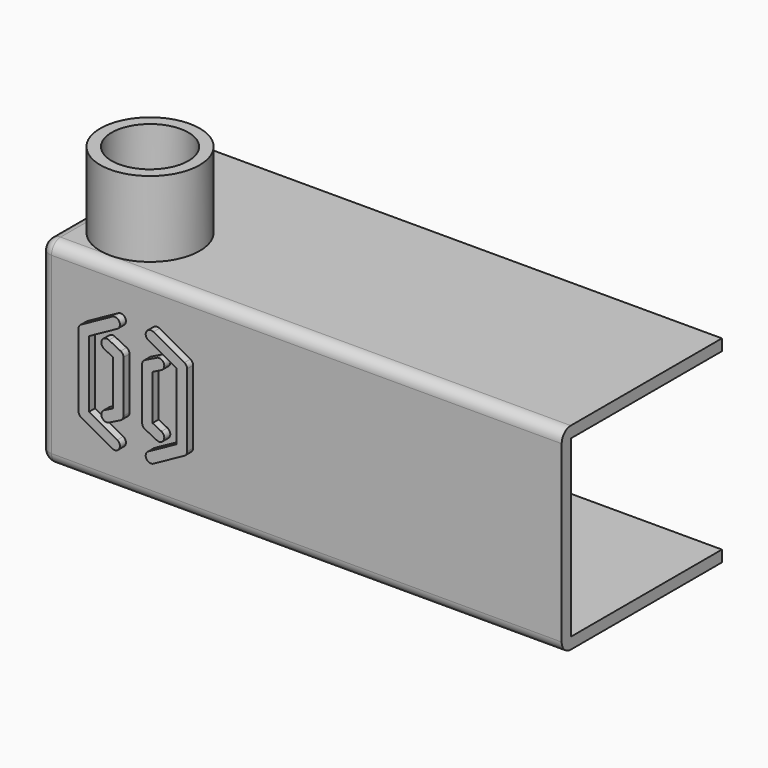
from build123d import *

# Parameters (mm, degrees)
SKETCH_W       = 135
SKETCH_H       = 46.2
PAD_DEPTH      = 50
THICKNESS_T    = 3
SKETCH001_R    = 13.15
SKETCH001_R_2  = 10.15
PAD001_DEPTH   = 20
PAD002_DEPTH   = 2
SKETCH003_W    = 135
SKETCH003_H    = 46.2
PAD003_DEPTH   = 50
THICKNESS001_T = 3


with BuildPart() as left_section:
    # Sketch → Pad (new body)
    with BuildSketch(Plane.XZ):
        Rectangle(SKETCH_W, SKETCH_H)
    extrude(amount=PAD_DEPTH)

    # Thickness
    thickness_openings = [left_section.faces().sort_by_distance(p)[0] for p in [
        (67.5, -25, 0),
        (0, 0, 0),
    ]]
    offset(amount=THICKNESS_T, openings=thickness_openings)

    # Sketch001 (on Face9 of Thickness) → Pad001 (join)
    with BuildSketch(Plane.XY.offset(26.1)):
        with Locations((-54.35, -36.85)):
            Circle(SKETCH001_R)
        with Locations((-54.35, -36.85)):
            Circle(SKETCH001_R_2, mode=Mode.SUBTRACT)
    extrude(amount=PAD001_DEPTH)

    # Sketch002 (on Face13 of Pad001) → Pad002 (join)
    with BuildSketch(Plane.XZ.offset(53)):
        with BuildLine():
            ThreePointArc((-50.721178, -9.605566), (-52.570827, -8.989015), (-51.954276, -7.139366))
            Line((-49.614418, -5.969439), (-51.954276, -7.139366))
            Line((-49.614418, 5.969439), (-49.614418, -5.969439))
            Line((-49.614418, 5.969439), (-51.954276, 7.139366))
            ThreePointArc((-51.954276, 7.139366), (-52.570827, 8.989015), (-50.721178, 9.605566))
            Line((-47.619222, 8.05459), (-50.721178, 9.605566))
            ThreePointArc((-47.619222, 8.05459), (-47.063024, 7.546288), (-46.857124, 6.82149))
            Line((-46.857124, 6.82149), (-46.857124, -6.82149))
            ThreePointArc((-46.857124, -6.82149), (-47.063024, -7.546288), (-47.619222, -8.05459))
            Line((-47.619222, -8.05459), (-50.721178, -9.605566))
        make_face()
        with BuildLine():
            ThreePointArc((-48.518366, -12.938009), (-47.976054, -14.810769), (-49.848814, -15.353081))
            Line((-49.848814, -15.353081), (-58.034521, -10.843626))
            ThreePointArc((-58.034521, -10.843626), (-58.556263, -10.33736), (-58.747944, -9.63609))
            Line((-58.747944, 9.63609), (-58.747944, -9.63609))
            ThreePointArc((-58.747944, 9.63609), (-58.556263, 10.33736), (-58.034521, 10.843626))
            Line((-49.848814, 15.353081), (-58.034521, 10.843626))
            ThreePointArc((-49.848814, 15.353081), (-47.976054, 14.810769), (-48.518366, 12.938009))
            Line((-48.518366, 12.938009), (-55.99065, 8.821574))
            Line((-55.99065, 8.821574), (-55.99065, -8.821574))
            Line((-48.518366, -12.938009), (-55.99065, -8.821574))
        make_face()
        with BuildLine():
            ThreePointArc((-36.827454, -7.139366), (-36.210903, -8.989015), (-38.060552, -9.605566))
            Line((-41.162508, -8.05459), (-38.060552, -9.605566))
            ThreePointArc((-41.162508, -8.05459), (-41.718706, -7.546288), (-41.924606, -6.82149))
            Line((-41.924606, 6.82149), (-41.924606, -6.82149))
            ThreePointArc((-41.924606, 6.82149), (-41.718706, 7.546288), (-41.162508, 8.05459))
            Line((-41.162508, 8.05459), (-38.060552, 9.605566))
            ThreePointArc((-38.060552, 9.605566), (-36.210903, 8.989015), (-36.827454, 7.139366))
            Line((-39.167312, 5.969439), (-36.827454, 7.139366))
            Line((-39.167312, 5.969439), (-39.167312, -5.969439))
            Line((-39.167312, -5.969439), (-36.827454, -7.139366))
        make_face()
        with BuildLine():
            ThreePointArc((-38.932916, -15.353081), (-40.805676, -14.810769), (-40.263364, -12.938009))
            Line((-40.263364, -12.938009), (-32.79108, -8.821574))
            Line((-32.79108, 8.821574), (-32.79108, -8.821574))
            Line((-40.263364, 12.938009), (-32.79108, 8.821574))
            ThreePointArc((-40.263364, 12.938009), (-40.805676, 14.810769), (-38.932916, 15.353081))
            Line((-38.932916, 15.353081), (-30.747209, 10.843626))
            ThreePointArc((-30.747209, 10.843626), (-30.225467, 10.33736), (-30.033786, 9.63609))
            Line((-30.033786, 9.63609), (-30.033786, -9.63609))
            ThreePointArc((-30.033786, -9.63609), (-30.225467, -10.33736), (-30.747209, -10.843626))
            Line((-38.932916, -15.353081), (-30.747209, -10.843626))
        make_face()
    extrude(amount=PAD002_DEPTH)


with BuildPart() as mid_section:
    # Sketch003 → Pad003 (new body)
    with BuildSketch(Plane.XZ):
        Rectangle(SKETCH003_W, SKETCH003_H)
    extrude(amount=PAD003_DEPTH)

    # Thickness001
    thickness001_openings = [mid_section.faces().sort_by_distance(p)[0] for p in [
        (67.5, -25, 0),
        (0, 0, 0),
        (-67.5, -25, 0),
    ]]
    offset(amount=THICKNESS001_T, openings=thickness001_openings)


solid = Compound([left_section.part, mid_section.part])
